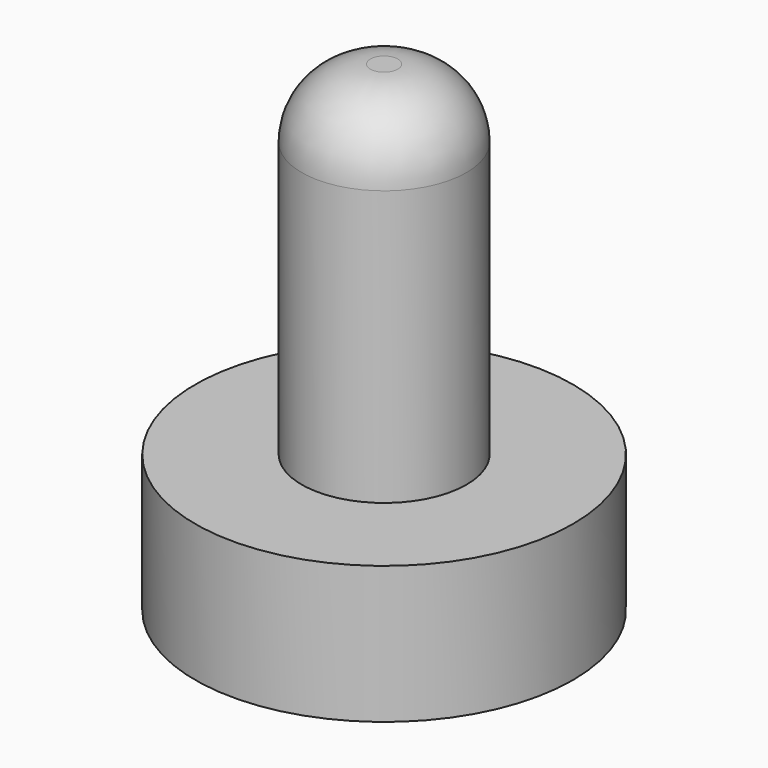
from build123d import *

# Parameters (mm, degrees)
SKETCH_R     = 2.75
PAD_DEPTH    = 2
SKETCH001_R  = 1.2
PAD001_DEPTH = 5
FILLET_R     = 1


with BuildPart() as part:
    # Sketch → Pad (new body)
    with BuildSketch(Plane.XY):
        Circle(SKETCH_R)
    extrude(amount=PAD_DEPTH)

    # Sketch001 (on Face3 of Pad) → Pad001 (join)
    with BuildSketch(Plane.XY.offset(2)):
        Circle(SKETCH001_R)
    extrude(amount=PAD001_DEPTH)

    # Fillet
    fillet_edges = [part.edges().sort_by_distance(p)[0] for p in [
        (-1.2, 0, 7),
    ]]
    fillet(fillet_edges, radius=FILLET_R)


solid = part.part
